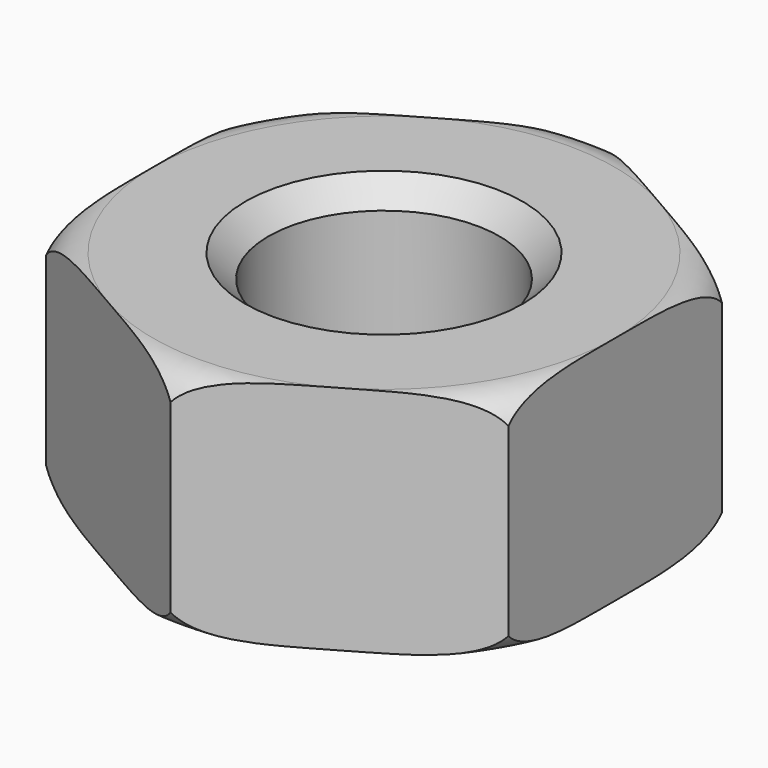
from build123d import *

# Parameters (mm, degrees)
F2_R     = 6.562274
F3_DEPTH = 12.5


with BuildPart() as f1:
    # F0 (on Front) → F1 (revolve)
    with BuildSketch(Plane.XZ):
        with BuildLine():
            Line((-2.5, -2), (-2.5, 0))
            Line((-2.5, 0), (-2.5, 2))
            Line((-2.5, 2), (-3, 2.5))
            Line((-3, 2.5), (-5, 2.5))
            ThreePointArc((-5, 2.5), (-5.460518, 2.364117), (-5.773503, 2))
            Line((-5.773503, 2), (-5.773503, 0))
            Line((-5.773503, 0), (-5.773503, -2))
            ThreePointArc((-5.773503, -2), (-5.460518, -2.364117), (-5, -2.5))
            Line((-5, -2.5), (-3, -2.5))
            Line((-3, -2.5), (-2.5, -2))
        make_face()
    revolve(axis=Axis((0, 0, 4.430122), (0, 0, 1)))

    # F2 (on Top) → F3 (cut, symmetric)
    with BuildSketch(Plane.XY):
        Circle(F2_R)
        Polygon((0, 5.773503), (5, 2.886751), (5, -2.886751), (0, -5.773503), (-5, -2.886751), (-5, 2.886751), align=None, mode=Mode.SUBTRACT)
    extrude(amount=F3_DEPTH, both=True, mode=Mode.SUBTRACT)


solid = f1.part
